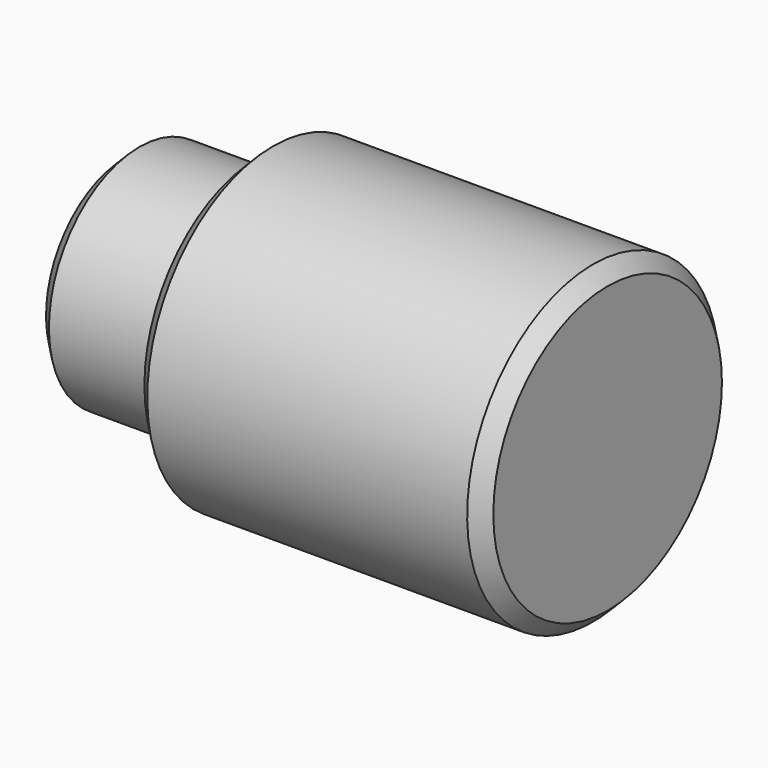
from build123d import *

# Parameters (mm, degrees)
F2_SIZE = 5.08


with BuildPart() as f1:
    # F0 (on Front) → F1 (revolve)
    with BuildSketch(Plane.XZ):
        Polygon((-46.726406, 39.597064), (-46.726406, 0), (121.980071, 0), (121.980071, 55.026863), (0, 55.026863), (0, 39.597064), align=None)
    revolve(axis=Axis((37.626833, 0, 0), (1, 0, 0)))

    # F2
    f2_edges = [f1.edges().sort_by_distance(p)[0] for p in [
        (-46.726406, 0, -39.597064),
        (0, 0, -55.026863),
        (121.980071, 0, -55.026863),
    ]]
    chamfer(f2_edges, length=F2_SIZE)


solid = f1.part
